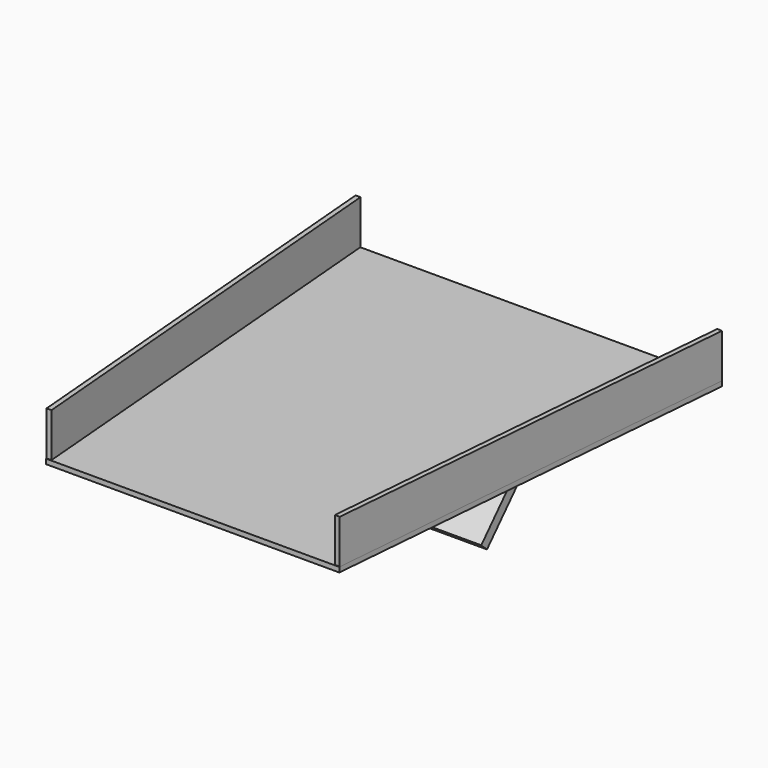
from build123d import *

# Parameters (mm, degrees)
F1_DEPTH = 10
F2_W     = 887.253195621
F2_H     = 100
F3_DEPTH = 10
F6_DEPTH = 100


with BuildPart() as f1:
    # F0 (on Top) → F1 (new body)
    with BuildSketch(Plane.XY):
        Polygon((-300, -442.5), (300, -442.5), (375, 442.5), (300, 442.5), (-300, 442.5), (-375, 442.5), align=None)
        Polygon((-300, -442.5), (300, -442.5), (375, 442.5), (300, 442.5), (-300, 442.5), (-375, 442.5), align=None)
    extrude(amount=F1_DEPTH)

    # F2 (on face) → F3 (join)
    with BuildSketch(Plane(origin=(-335.0934112949, -28.3977467199, 0), x_dir=(0.0844430767, -0.9964283049, 0), z_dir=(-0.9964283049, -0.0844430767, 0))):
        with Locations((-28.9590808637, 50)):
            Rectangle(F2_W, F2_H)
    extrude(amount=-F3_DEPTH)

    # F4: F1 across plane


with BuildPart() as f1_1:
    add(f1.part)
    add(f1.part.mirror(Plane.YZ))

    # F5 (on Right) → F6 (join, symmetric)
    with BuildSketch(Plane.YZ):
        Polygon((185.2948494855, -278.7305519032), (442.5, 0), (415.2859534537, 0), (170.5965575825, -265.1673585059), align=None)
    extrude(amount=F6_DEPTH, both=True)


solid = f1_1.part
